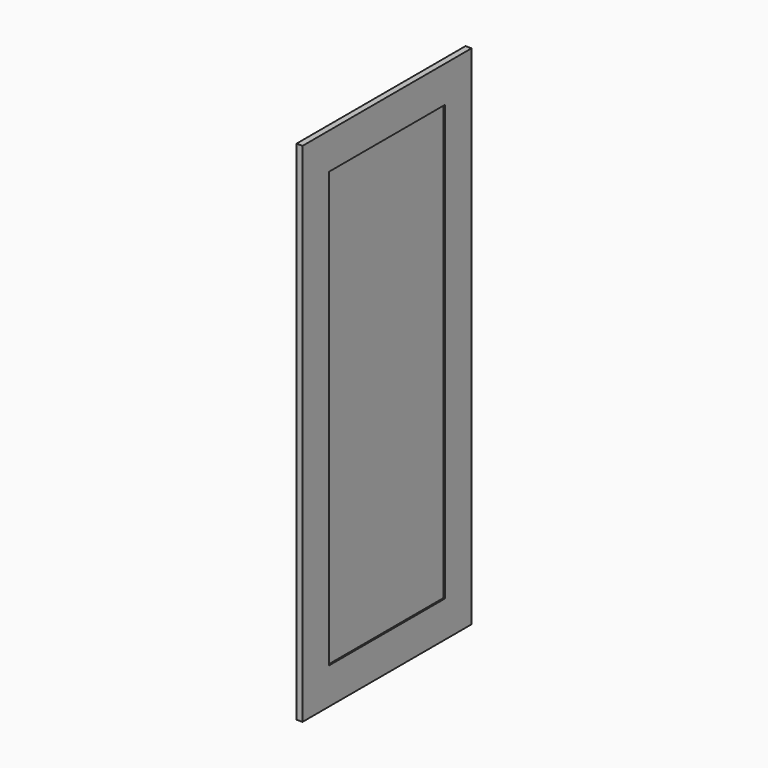
from build123d import *

# Parameters (mm, degrees)
F0_W     = 609.6
F0_H     = 1828.8
F1_DEPTH = 19.05
F0_W_2   = 889
F0_H_2   = 2133.6
F2_DEPTH = 25.4


with BuildPart() as f1:
    # F0 (on Right) → F1 (new body)
    with BuildSketch(Plane.YZ):
        Rectangle(F0_W, F0_H)
    extrude(amount=F1_DEPTH)

    # F0 (on Right) → F2 (join)
    with BuildSketch(Plane.YZ):
        Rectangle(F0_W_2, F0_H_2)
        Rectangle(F0_W, F0_H, mode=Mode.SUBTRACT)
    extrude(amount=F2_DEPTH)


solid = f1.part
